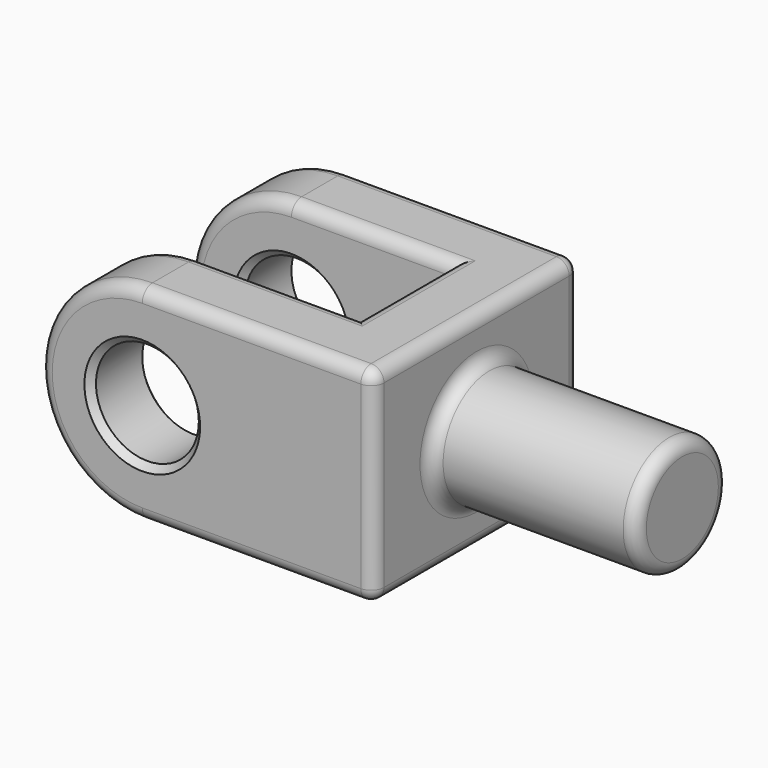
from build123d import *

# Parameters (mm, degrees)
F1_DEPTH      = 20
F1_DEPTH_BACK = 20
F2_R          = 8
F3_DEPTH      = 40.001
F4_W          = 62.5443432552
F4_H          = 18
F5_DEPTH      = 16.001
F5_DEPTH_BACK = 25
F6_R          = 9
F7_DEPTH      = 32
F8_SIZE       = 1
F9_R          = 2


with BuildPart() as f1:
    # F0 (on Front) → F1 (new body, two sides)
    with BuildSketch(Plane.XZ) as f1_sk:
        with BuildLine():
            Line((22.6247903556, -16), (22.6247903556, 16))
            Line((22.6247903556, 16), (-13.3752096444, 16))
            ThreePointArc((-13.3752096444, 16), (-29.3752096444, 0), (-13.3752096444, -16))
            Line((-13.3752096444, -16), (22.6247903556, -16))
        make_face()
    extrude(amount=F1_DEPTH)
    extrude(f1_sk.sketch, amount=-F1_DEPTH_BACK)

    # F2 (on face) → F3 (cut, through all)
    with BuildSketch(Plane.XZ.offset(20)):
        with Locations((-13.3752096444, 0)):
            Circle(F2_R)
    extrude(amount=-F3_DEPTH, mode=Mode.SUBTRACT)

    # F4 (on Top) → F5 (cut, two sides)
    with BuildSketch(Plane.XY) as f5_sk:
        with Locations((-19.647381272, 0)):
            Rectangle(F4_W, F4_H)
    extrude(amount=F5_DEPTH, mode=Mode.SUBTRACT)
    extrude(f5_sk.sketch, amount=-F5_DEPTH_BACK, mode=Mode.SUBTRACT)

    # F6 (on face) → F7 (join)
    with BuildSketch(Plane.YZ.offset(22.6247903556)):
        Circle(F6_R)
    extrude(amount=F7_DEPTH)

    # F8
    f8_edges = [f1.edges().sort_by_distance(p)[0] for p in [
        (-21.37521, -20, 0),
        (-21.37521, 20, 0),
        (-21.37521, -9, 0),
        (-21.37521, 9, 0),
    ]]
    chamfer(f8_edges, length=F8_SIZE)

    # F9
    f9_edges = [f1.edges().sort_by_distance(p)[0] for p in [
        (-29.37521, -20, 0),
        (-0.87521, -9, 16),
        (11.62479, 0, 16),
        (11.62479, 0, -16),
        (-0.87521, 9, -16),
        (-29.37521, 20, 0),
        (22.62479, 20, 0),
        (22.62479, 0, 16),
        (22.62479, -20, 0),
        (22.62479, 0, -16),
        (54.62479, -9, 0),
        (22.62479, -9, 0),
    ]]
    fillet(f9_edges, radius=F9_R)


solid = f1.part
